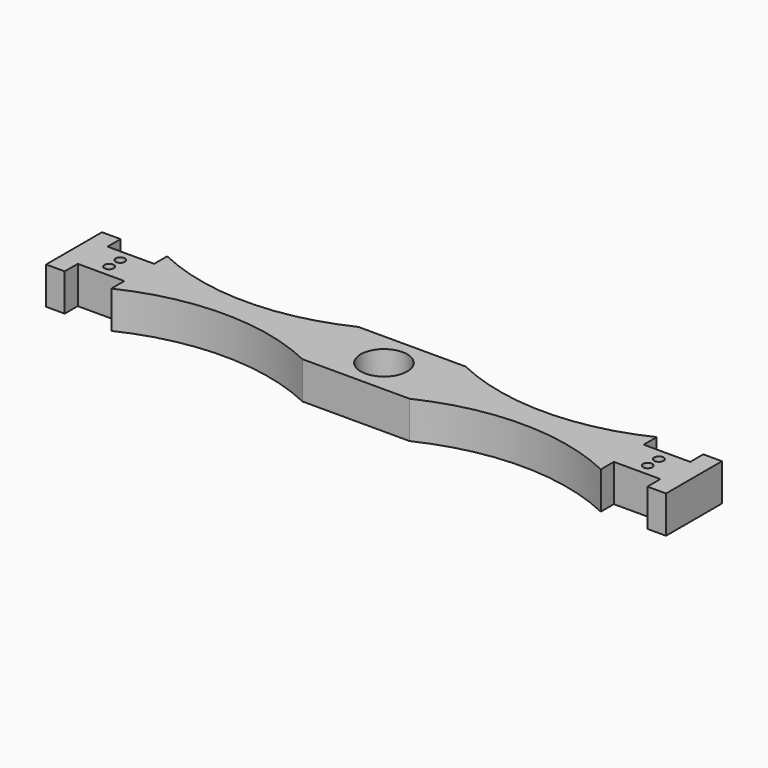
from build123d import *

# Parameters (mm, degrees)
F0_W     = 23
F0_H     = 15
F1_DEPTH = 8
F2_D     = 2
F2_DEPTH = 50
F3_D     = 10
F3_DEPTH = 50


with BuildPart() as f1:
    # F0 (on Top) → F1 (new body)
    with BuildSketch(Plane.XY):
        Rectangle(F0_W, F0_H)
        with BuildLine():
            Line((-11.5, -7.5), (-11.5, 7.5))
            ThreePointArc((-11.5, 7.5), (-32.024307, 2.863257), (-52.548613, 7.5))
            Line((-52.548613, 7.5), (-52.548613, 4))
            Line((-52.548613, 4), (-62.548613, 4))
            Line((-62.548613, 4), (-62.548613, 7.5))
            Line((-62.548613, 7.5), (-66.548613, 7.5))
            Line((-66.548613, 7.5), (-66.548613, -7.5))
            Line((-66.548613, -7.5), (-62.548613, -7.5))
            Line((-62.548613, -7.5), (-62.548613, -4))
            Line((-62.548613, -4), (-52.548613, -4))
            Line((-52.548613, -4), (-52.548613, -7.5))
            ThreePointArc((-52.548613, -7.5), (-32.024307, -2.863257), (-11.5, -7.5))
        make_face()
        with BuildLine():
            ThreePointArc((52.548613, 7.5), (32.024307, 2.863257), (11.5, 7.5))
            Line((11.5, 7.5), (11.5, -7.5))
            ThreePointArc((11.5, -7.5), (32.024307, -2.863257), (52.548613, -7.5))
            Line((52.548613, -7.5), (52.548613, -4))
            Line((52.548613, -4), (62.548613, -4))
            Line((62.548613, -4), (62.548613, -7.5))
            Line((62.548613, -7.5), (66.548613, -7.5))
            Line((66.548613, -7.5), (66.548613, 7.5))
            Line((66.548613, 7.5), (62.548613, 7.5))
            Line((62.548613, 7.5), (62.548613, 4))
            Line((62.548613, 4), (52.548613, 4))
            Line((52.548613, 4), (52.548613, 7.5))
        make_face()
    extrude(amount=F1_DEPTH)

    # F2
    with Locations(Plane(origin=(0, 0, 0), x_dir=(1, 0, 0), z_dir=(0, 0, -1))):
        with Locations((-57.820026, 1.5), (-57.820026, -1.5), (57.820026, 1.5), (57.820026, -1.5)):
            Hole(F2_D / 2, depth=F2_DEPTH)

    # F3
    with Locations(Plane(origin=(0, 0, 0), x_dir=(1, 0, 0), z_dir=(0, 0, -1))):
        with Locations((0, 0)):
            Hole(F3_D / 2, depth=F3_DEPTH)


solid = f1.part
